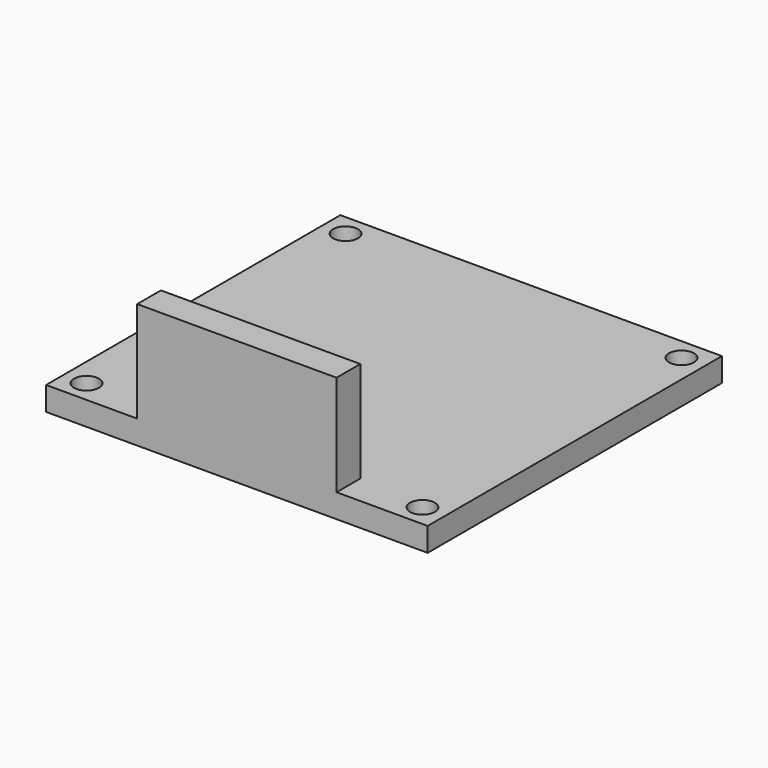
from build123d import *

# Parameters (mm, degrees)
F0_W     = 32.16
F0_H     = 31
F1_DEPTH = 2
F3_D     = 2.1
F3_DEPTH = 5
F4_W     = 16.8
F4_H     = 2.5
F5_DEPTH = 8.5


with BuildPart() as f1:
    # F0 (on Top) → F1 (new body)
    with BuildSketch(Plane.XY):
        Rectangle(F0_W, F0_H)
    extrude(amount=F1_DEPTH)

    # F3
    with Locations(Plane.XY.offset(2)):
        with Locations((-14.155587, 13.645), (14.155587, 13.645), (-14.155587, -13.645), (14.155587, -13.645)):
            Hole(F3_D / 2, depth=F3_DEPTH)

    # F4 (on face) → F5 (join)
    with BuildSketch(Plane.XY.offset(2)):
        with Locations((0, -14.25)):
            Rectangle(F4_W, F4_H)
    extrude(amount=F5_DEPTH)


solid = f1.part
